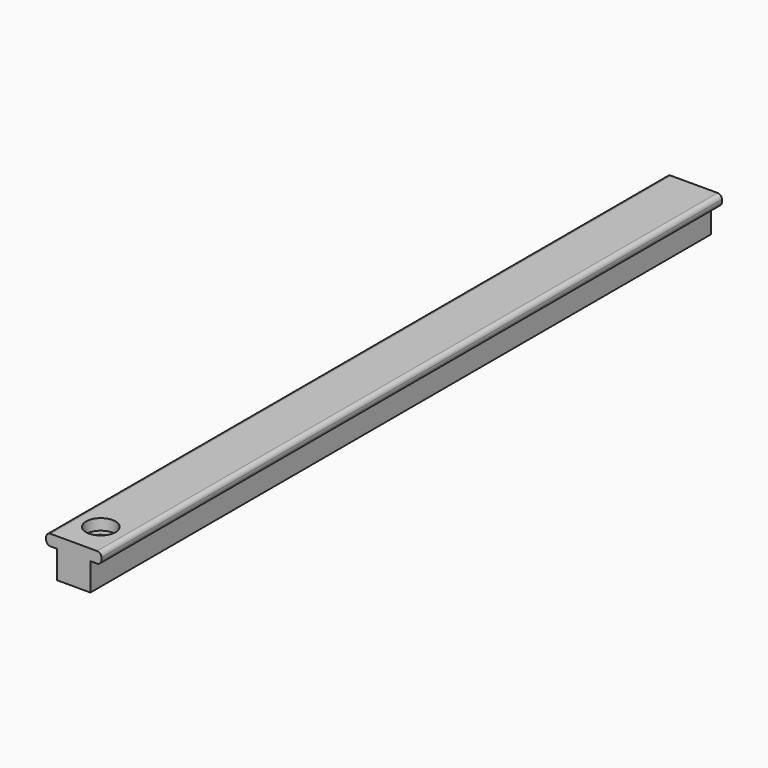
from build123d import *

# Parameters (mm, degrees)
F1_DEPTH = 355.6
F2_R     = 6.75023
F2_R_2   = 4.051718
F3_DEPTH = 5.08
F4_R     = 3.621045
F5_DEPTH = 25.4


with BuildPart() as f1:
    # F0 (on Front) → F1 (new body)
    with BuildSketch(Plane.XZ):
        with BuildLine():
            Line((10.668, 17.78), (0, 17.78))
            Line((0, 17.78), (-10.668, 17.78))
            ThreePointArc((-10.668, 17.78), (-12.104841, 17.184841), (-12.7, 15.748))
            Line((-12.7, 15.748), (-12.7, 14.732))
            ThreePointArc((-12.7, 14.732), (-12.104841, 13.295159), (-10.668, 12.7))
            Line((-10.668, 12.7), (-7.62, 12.7))
            Line((-7.62, 12.7), (-7.62, 0))
            Line((-7.62, 0), (0, 0))
            Line((0, 0), (7.62, 0))
            Line((7.62, 0), (7.62, 12.7))
            Line((7.62, 12.7), (10.668, 12.7))
            ThreePointArc((10.668, 12.7), (12.104841, 13.295159), (12.7, 14.732))
            Line((12.7, 14.732), (12.7, 15.748))
            ThreePointArc((12.7, 15.748), (12.104841, 17.184841), (10.668, 17.78))
        make_face()
    extrude(amount=-F1_DEPTH)

    # F2 (on face) → F3 (cut)
    with BuildSketch(Plane.XY.offset(17.78)):
        with Locations((0, 15.474608)):
            Circle(F2_R)
        with Locations((0, 15.474608)):
            Circle(F2_R_2, mode=Mode.SUBTRACT)
        with Locations((0, 15.474608)):
            Circle(F2_R_2)
    extrude(amount=-F3_DEPTH, mode=Mode.SUBTRACT)

    # F4 (on face) → F5 (cut)
    with BuildSketch(Plane.XY.offset(17.78)):
        with Locations((0, 15.474608)):
            Circle(F4_R)
    extrude(amount=-F5_DEPTH, mode=Mode.SUBTRACT)


solid = f1.part
